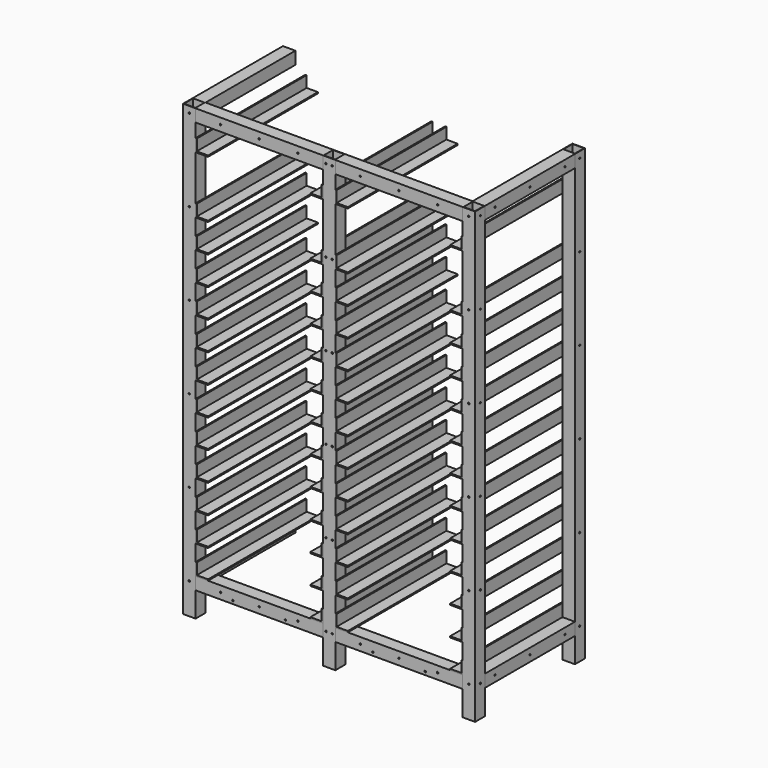
from build123d import *

# Parameters (mm, degrees)
F1_DEPTH  = 550
F0_W      = 510
F0_H      = 50
F2_DEPTH  = 50
F3_DEPTH  = 50
F4_W      = 46
F4_H      = 46
F5_DEPTH  = 1800
F6_DEPTH  = 1800
F7_DEPTH  = 1800
F8_W      = 50
F8_H      = 50
F9_DEPTH  = 450
F10_R     = 3
F11_DEPTH = 25
F12_DEPTH = 25
F13_DEPTH = 25
F14_DEPTH = 25
F15_R     = 3
F16_DEPTH = 55
F17_R     = 3
F17_R_2   = 3.195784
F18_DEPTH = 55
F19_R     = 3
F20_DEPTH = 55
F21_R     = 3
F22_DEPTH = 55
F23_R     = 3
F24_DEPTH = 25
F25_R     = 3
F26_DEPTH = 55
F27_R     = 3
F28_DEPTH = 55
F29_W     = 50
F29_H     = 1800
F30_DEPTH = 50
F31_R     = 3
F32_DEPTH = 25
F33_W     = 46
F33_H     = 46
F34_DEPTH = 1800


with BuildPart() as f1:
    # F0 (on Front) → F1 (new body)
    with BuildSketch(Plane.XZ):
        Polygon((-985.906557, 1764.440905), (-990.906557, 1764.440905), (-990.906557, 1714.440905), (-940.906557, 1714.440905), (-940.906557, 1719.440905), (-985.906557, 1719.440905), align=None)
        Polygon((-480.906557, 1714.440905), (-480.906557, 1764.440905), (-485.906557, 1764.440905), (-485.906557, 1719.440905), (-530.906557, 1719.440905), (-530.906557, 1714.440905), align=None)
        Polygon((-985.906557, 1534.440905), (-990.906557, 1534.440905), (-990.906557, 1484.440905), (-940.906557, 1484.440905), (-940.906557, 1489.440905), (-985.906557, 1489.440905), align=None)
        Polygon((-985.906557, 1419.440905), (-990.906557, 1419.440905), (-990.906557, 1369.440905), (-940.906557, 1369.440905), (-940.906557, 1374.440905), (-985.906557, 1374.440905), align=None)
        Polygon((-985.906557, 1304.440905), (-990.906557, 1304.440905), (-990.906557, 1254.440905), (-940.906557, 1254.440905), (-940.906557, 1259.440905), (-985.906557, 1259.440905), align=None)
        Polygon((-985.906557, 1189.440905), (-990.906557, 1189.440905), (-990.906557, 1139.440905), (-940.906557, 1139.440905), (-940.906557, 1144.440905), (-985.906557, 1144.440905), align=None)
        Polygon((-985.906557, 1074.440905), (-990.906557, 1074.440905), (-990.906557, 1024.440905), (-940.906557, 1024.440905), (-940.906557, 1029.440905), (-985.906557, 1029.440905), align=None)
        Polygon((-990.906557, 959.440905), (-990.906557, 909.440905), (-940.906557, 909.440905), (-940.906557, 914.440905), (-985.906557, 914.440905), (-985.906557, 959.440905), align=None)
        Polygon((-990.906557, 729.440905), (-990.906557, 679.440905), (-940.906557, 679.440905), (-940.906557, 684.440905), (-985.906557, 684.440905), (-985.906557, 729.440905), align=None)
        Polygon((-990.906557, 844.440905), (-990.906557, 794.440905), (-940.906557, 794.440905), (-940.906557, 799.440905), (-985.906557, 799.440905), (-985.906557, 844.440905), align=None)
        Polygon((-990.906557, 614.440905), (-990.906557, 564.440905), (-940.906557, 564.440905), (-940.906557, 569.440905), (-985.906557, 569.440905), (-985.906557, 614.440905), align=None)
        Polygon((-990.906557, 499.440905), (-990.906557, 449.440905), (-940.906557, 449.440905), (-940.906557, 454.440905), (-985.906557, 454.440905), (-985.906557, 499.440905), align=None)
        Polygon((-990.906557, 384.440905), (-990.906557, 334.440905), (-940.906557, 334.440905), (-940.906557, 339.440905), (-985.906557, 339.440905), (-985.906557, 384.440905), align=None)
        Polygon((-990.906557, 269.440905), (-990.906557, 219.440905), (-940.906557, 219.440905), (-940.906557, 224.440905), (-985.906557, 224.440905), (-985.906557, 269.440905), align=None)
        Polygon((-430.906557, 384.440905), (-430.906557, 334.440905), (-380.906557, 334.440905), (-380.906557, 339.440905), (-425.906557, 339.440905), (-425.906557, 384.440905), align=None)
        Polygon((-430.906557, 269.440905), (-430.906557, 219.440905), (-380.906557, 219.440905), (-380.906557, 224.440905), (-425.906557, 224.440905), (-425.906557, 269.440905), align=None)
        Polygon((-530.906557, 219.440905), (-480.906557, 219.440905), (-480.906557, 269.440905), (-485.906557, 269.440905), (-485.906557, 224.440905), (-530.906557, 224.440905), align=None)
        Polygon((-530.906557, 334.440905), (-480.906557, 334.440905), (-480.906557, 384.440905), (-485.906557, 384.440905), (-485.906557, 339.440905), (-530.906557, 339.440905), align=None)
        Polygon((-530.906557, 564.440905), (-480.906557, 564.440905), (-480.906557, 614.440905), (-485.906557, 614.440905), (-485.906557, 569.440905), (-530.906557, 569.440905), align=None)
        Polygon((-430.906557, 614.440905), (-430.906557, 564.440905), (-380.906557, 564.440905), (-380.906557, 569.440905), (-425.906557, 569.440905), (-425.906557, 614.440905), align=None)
        Polygon((-430.906557, 499.440905), (-430.906557, 449.440905), (-380.906557, 449.440905), (-380.906557, 454.440905), (-425.906557, 454.440905), (-425.906557, 499.440905), align=None)
        Polygon((-530.906557, 449.440905), (-480.906557, 449.440905), (-480.906557, 499.440905), (-485.906557, 499.440905), (-485.906557, 454.440905), (-530.906557, 454.440905), align=None)
        Polygon((-530.906557, 679.440905), (-480.906557, 679.440905), (-480.906557, 729.440905), (-485.906557, 729.440905), (-485.906557, 684.440905), (-530.906557, 684.440905), align=None)
        Polygon((-430.906557, 729.440905), (-430.906557, 679.440905), (-380.906557, 679.440905), (-380.906557, 684.440905), (-425.906557, 684.440905), (-425.906557, 729.440905), align=None)
        Polygon((-430.906557, 844.440905), (-430.906557, 794.440905), (-380.906557, 794.440905), (-380.906557, 799.440905), (-425.906557, 799.440905), (-425.906557, 844.440905), align=None)
        Polygon((-530.906557, 794.440905), (-480.906557, 794.440905), (-480.906557, 844.440905), (-485.906557, 844.440905), (-485.906557, 799.440905), (-530.906557, 799.440905), align=None)
        Polygon((-480.906557, 1024.440905), (-480.906557, 1074.440905), (-485.906557, 1074.440905), (-485.906557, 1029.440905), (-530.906557, 1029.440905), (-530.906557, 1024.440905), align=None)
        Polygon((-530.906557, 909.440905), (-480.906557, 909.440905), (-480.906557, 959.440905), (-485.906557, 959.440905), (-485.906557, 914.440905), (-530.906557, 914.440905), align=None)
        Polygon((-425.906557, 959.440905), (-430.906557, 959.440905), (-430.906557, 909.440905), (-380.906557, 909.440905), (-380.906557, 914.440905), (-425.906557, 914.440905), align=None)
        Polygon((-425.906557, 1074.440905), (-430.906557, 1074.440905), (-430.906557, 1024.440905), (-380.906557, 1024.440905), (-380.906557, 1029.440905), (-425.906557, 1029.440905), align=None)
        Polygon((-480.906557, 1254.440905), (-480.906557, 1304.440905), (-485.906557, 1304.440905), (-485.906557, 1259.440905), (-530.906557, 1259.440905), (-530.906557, 1254.440905), align=None)
        Polygon((-425.906557, 1304.440905), (-430.906557, 1304.440905), (-430.906557, 1254.440905), (-380.906557, 1254.440905), (-380.906557, 1259.440905), (-425.906557, 1259.440905), align=None)
        Polygon((-425.906557, 1189.440905), (-430.906557, 1189.440905), (-430.906557, 1139.440905), (-380.906557, 1139.440905), (-380.906557, 1144.440905), (-425.906557, 1144.440905), align=None)
        Polygon((-480.906557, 1139.440905), (-480.906557, 1189.440905), (-485.906557, 1189.440905), (-485.906557, 1144.440905), (-530.906557, 1144.440905), (-530.906557, 1139.440905), align=None)
        Polygon((-425.906557, 1419.440905), (-430.906557, 1419.440905), (-430.906557, 1369.440905), (-380.906557, 1369.440905), (-380.906557, 1374.440905), (-425.906557, 1374.440905), align=None)
        Polygon((-425.906557, 1534.440905), (-430.906557, 1534.440905), (-430.906557, 1484.440905), (-380.906557, 1484.440905), (-380.906557, 1489.440905), (-425.906557, 1489.440905), align=None)
        Polygon((-480.906557, 1484.440905), (-480.906557, 1534.440905), (-485.906557, 1534.440905), (-485.906557, 1489.440905), (-530.906557, 1489.440905), (-530.906557, 1484.440905), align=None)
        Polygon((-480.906557, 1369.440905), (-480.906557, 1419.440905), (-485.906557, 1419.440905), (-485.906557, 1374.440905), (-530.906557, 1374.440905), (-530.906557, 1369.440905), align=None)
        Polygon((-425.906557, 1764.440905), (-430.906557, 1764.440905), (-430.906557, 1714.440905), (-380.906557, 1714.440905), (-380.906557, 1719.440905), (-425.906557, 1719.440905), align=None)
        Polygon((79.093443, 1714.440905), (79.093443, 1764.440905), (74.093443, 1764.440905), (74.093443, 1719.440905), (29.093443, 1719.440905), (29.093443, 1714.440905), align=None)
        Polygon((79.093443, 1484.440905), (79.093443, 1534.440905), (74.093443, 1534.440905), (74.093443, 1489.440905), (29.093443, 1489.440905), (29.093443, 1484.440905), align=None)
        Polygon((79.093443, 1369.440905), (79.093443, 1419.440905), (74.093443, 1419.440905), (74.093443, 1374.440905), (29.093443, 1374.440905), (29.093443, 1369.440905), align=None)
        Polygon((79.093443, 1139.440905), (79.093443, 1189.440905), (74.093443, 1189.440905), (74.093443, 1144.440905), (29.093443, 1144.440905), (29.093443, 1139.440905), align=None)
        Polygon((79.093443, 1254.440905), (79.093443, 1304.440905), (74.093443, 1304.440905), (74.093443, 1259.440905), (29.093443, 1259.440905), (29.093443, 1254.440905), align=None)
        Polygon((79.093443, 909.440905), (79.093443, 959.440905), (74.093443, 959.440905), (74.093443, 914.440905), (29.093443, 914.440905), (29.093443, 909.440905), align=None)
        Polygon((79.093443, 1024.440905), (79.093443, 1074.440905), (74.093443, 1074.440905), (74.093443, 1029.440905), (29.093443, 1029.440905), (29.093443, 1024.440905), align=None)
        Polygon((29.093443, 679.440905), (79.093443, 679.440905), (79.093443, 729.440905), (74.093443, 729.440905), (74.093443, 684.440905), (29.093443, 684.440905), align=None)
        Polygon((29.093443, 794.440905), (79.093443, 794.440905), (79.093443, 844.440905), (74.093443, 844.440905), (74.093443, 799.440905), (29.093443, 799.440905), align=None)
        Polygon((29.093443, 564.440905), (79.093443, 564.440905), (79.093443, 614.440905), (74.093443, 614.440905), (74.093443, 569.440905), (29.093443, 569.440905), align=None)
        Polygon((29.093443, 449.440905), (79.093443, 449.440905), (79.093443, 499.440905), (74.093443, 499.440905), (74.093443, 454.440905), (29.093443, 454.440905), align=None)
        Polygon((29.093443, 334.440905), (79.093443, 334.440905), (79.093443, 384.440905), (74.093443, 384.440905), (74.093443, 339.440905), (29.093443, 339.440905), align=None)
        Polygon((29.093443, 219.440905), (79.093443, 219.440905), (79.093443, 269.440905), (74.093443, 269.440905), (74.093443, 224.440905), (29.093443, 224.440905), align=None)
    extrude(amount=-F1_DEPTH)


with BuildPart() as f2:
    # F0 (on Front) → F2 (new body)
    with BuildSketch(Plane.XZ):
        with Locations((-735.906557, 1844.440905)):
            Rectangle(F0_W, F0_H)
        with Locations((-175.906557, 1844.440905)):
            Rectangle(F0_W, F0_H)
        Polygon((-430.906557, 219.440905), (-430.906557, 169.440905), (79.093443, 169.440905), (79.093443, 219.440905), (29.093443, 219.440905), (-380.906557, 219.440905), align=None)
        Polygon((-990.906557, 219.440905), (-990.906557, 169.440905), (-480.906557, 169.440905), (-480.906557, 219.440905), (-530.906557, 219.440905), (-940.906557, 219.440905), align=None)
    extrude(amount=-F2_DEPTH)

    # F15 (on face) → F16 (cut)
    with BuildSketch(Plane.XZ):
        with Locations((-890.906557, 194.440905)):
            Circle(F15_R)
        with Locations((-580.906557, 194.440905)):
            Circle(F15_R)
        with Locations((-735.906557, 194.440905)):
            Circle(F15_R)
        with Locations((-630.906557, 181.940905)):
            Circle(F15_R)
        with Locations((-840.906557, 181.940905)):
            Circle(F15_R)
    extrude(amount=-F16_DEPTH, mode=Mode.SUBTRACT)

    # F17 (on face) → F18 (cut)
    with BuildSketch(Plane.XZ):
        with Locations((-330.906557, 194.440905)):
            Circle(F17_R)
        with Locations((-175.906557, 194.440905)):
            Circle(F17_R)
        with Locations((-20.906557, 194.440905)):
            Circle(F17_R_2)
        with Locations((-280.906557, 181.940905)):
            Circle(F17_R)
        with Locations((-70.906557, 181.940905)):
            Circle(F17_R)
    extrude(amount=-F18_DEPTH, mode=Mode.SUBTRACT)

    # F19 (on face) → F20 (cut)
    with BuildSketch(Plane.XZ):
        with Locations((-330.906557, 1844.440905)):
            Circle(F19_R)
        with Locations((-175.906557, 1844.440905)):
            Circle(F19_R)
        with Locations((-20.906557, 1844.440905)):
            Circle(F19_R)
    extrude(amount=-F20_DEPTH, mode=Mode.SUBTRACT)

    # F21 (on face) → F22 (cut)
    with BuildSketch(Plane.XZ):
        with Locations((-890.906557, 1844.440905)):
            Circle(F21_R)
        with Locations((-735.906557, 1844.440905)):
            Circle(F21_R)
        with Locations((-580.906557, 1844.440905)):
            Circle(F21_R)
    extrude(amount=-F22_DEPTH, mode=Mode.SUBTRACT)


with BuildPart() as f3:
    # F0 (on Front) → F3 (new body)
    with BuildSketch(Plane.XZ):
        Polygon((129.093443, 1869.440905), (79.093443, 1869.440905), (79.093443, 1819.440905), (79.093443, 1764.440905), (79.093443, 1714.440905), (79.093443, 1534.440905), (79.093443, 1484.440905), (79.093443, 1419.440905), (79.093443, 1369.440905), (79.093443, 1304.440905), (79.093443, 1254.440905), (79.093443, 1189.440905), (79.093443, 1139.440905), (79.093443, 1074.440905), (79.093443, 1024.440905), (79.093443, 959.440905), (79.093443, 909.440905), (79.093443, 844.440905), (79.093443, 794.440905), (79.093443, 729.440905), (79.093443, 679.440905), (79.093443, 614.440905), (79.093443, 564.440905), (79.093443, 499.440905), (79.093443, 449.440905), (79.093443, 384.440905), (79.093443, 334.440905), (79.093443, 269.440905), (79.093443, 219.440905), (79.093443, 169.440905), (79.093443, 69.440905), (129.093443, 69.440905), align=None)
        Polygon((-480.906557, 219.440905), (-480.906557, 169.440905), (-480.906557, 69.440905), (-430.906557, 69.440905), (-430.906557, 169.440905), (-430.906557, 219.440905), (-430.906557, 269.440905), (-430.906557, 334.440905), (-430.906557, 384.440905), (-430.906557, 449.440905), (-430.906557, 499.440905), (-430.906557, 564.440905), (-430.906557, 614.440905), (-430.906557, 679.440905), (-430.906557, 729.440905), (-430.906557, 794.440905), (-430.906557, 844.440905), (-430.906557, 909.440905), (-430.906557, 959.440905), (-430.906557, 1024.440905), (-430.906557, 1074.440905), (-430.906557, 1139.440905), (-430.906557, 1189.440905), (-430.906557, 1254.440905), (-430.906557, 1304.440905), (-430.906557, 1369.440905), (-430.906557, 1419.440905), (-430.906557, 1484.440905), (-430.906557, 1534.440905), (-430.906557, 1714.440905), (-430.906557, 1764.440905), (-430.906557, 1819.440905), (-430.906557, 1869.440905), (-480.906557, 1869.440905), (-480.906557, 1819.440905), (-480.906557, 1764.440905), (-480.906557, 1714.440905), (-480.906557, 1534.440905), (-480.906557, 1484.440905), (-480.906557, 1419.440905), (-480.906557, 1369.440905), (-480.906557, 1304.440905), (-480.906557, 1254.440905), (-480.906557, 1189.440905), (-480.906557, 1139.440905), (-480.906557, 1074.440905), (-480.906557, 1024.440905), (-480.906557, 959.440905), (-480.906557, 909.440905), (-480.906557, 844.440905), (-480.906557, 794.440905), (-480.906557, 729.440905), (-480.906557, 679.440905), (-480.906557, 614.440905), (-480.906557, 564.440905), (-480.906557, 499.440905), (-480.906557, 449.440905), (-480.906557, 384.440905), (-480.906557, 334.440905), (-480.906557, 269.440905), align=None)
        Polygon((-1040.906557, 1869.440905), (-1040.906557, 69.440905), (-990.906557, 69.440905), (-990.906557, 169.440905), (-990.906557, 219.440905), (-990.906557, 269.440905), (-990.906557, 334.440905), (-990.906557, 384.440905), (-990.906557, 449.440905), (-990.906557, 499.440905), (-990.906557, 564.440905), (-990.906557, 614.440905), (-990.906557, 679.440905), (-990.906557, 729.440905), (-990.906557, 794.440905), (-990.906557, 844.440905), (-990.906557, 909.440905), (-990.906557, 959.440905), (-990.906557, 1024.440905), (-990.906557, 1074.440905), (-990.906557, 1139.440905), (-990.906557, 1189.440905), (-990.906557, 1254.440905), (-990.906557, 1304.440905), (-990.906557, 1369.440905), (-990.906557, 1419.440905), (-990.906557, 1484.440905), (-990.906557, 1534.440905), (-990.906557, 1714.440905), (-990.906557, 1764.440905), (-990.906557, 1819.440905), (-990.906557, 1869.440905), align=None)
    extrude(amount=-F3_DEPTH)

    # F4 (on face) → F5 (cut)
    with BuildSketch(Plane.XY.offset(1869.440905)):
        with Locations((-1015.906557, 25)):
            Rectangle(F4_W, F4_H)
    extrude(amount=-F5_DEPTH, mode=Mode.SUBTRACT)

    # F4 (on face) → F6 (cut)
    with BuildSketch(Plane.XY.offset(1869.440905)):
        with Locations((-455.906557, 25)):
            Rectangle(F4_W, F4_H)
    extrude(amount=-F6_DEPTH, mode=Mode.SUBTRACT)

    # F4 (on face) → F7 (cut)
    with BuildSketch(Plane.XY.offset(1869.440905)):
        with Locations((104.093443, 25)):
            Rectangle(F4_W, F4_H)
    extrude(amount=-F7_DEPTH, mode=Mode.SUBTRACT)

    # F10 (on face) → F11 (cut)
    with BuildSketch(Plane.XZ):
        with Locations((-1015.906557, 194.440905)):
            Circle(F10_R)
        with Locations((-1015.906557, 524.440905)):
            Circle(F10_R)
        with Locations((-1015.906557, 854.440905)):
            Circle(F10_R)
        with Locations((-1015.906557, 1184.440905)):
            Circle(F10_R)
        with Locations((-1015.906557, 1514.440905)):
            Circle(F10_R)
        with Locations((-1015.906557, 1844.440905)):
            Circle(F10_R)
    extrude(amount=-F11_DEPTH, mode=Mode.SUBTRACT)

    # F10 (on face) → F12 (cut)
    with BuildSketch(Plane.XZ):
        with Locations((103.630789, 1514.440905)):
            Circle(F10_R)
        with Locations((103.630789, 854.440905)):
            Circle(F10_R)
        with Locations((103.630789, 524.440905)):
            Circle(F10_R)
        with Locations((103.630789, 194.440905)):
            Circle(F10_R)
        with Locations((103.630789, 1184.440905)):
            Circle(F10_R)
        with Locations((103.630789, 1844.440905)):
            Circle(F10_R)
    extrude(amount=-F12_DEPTH, mode=Mode.SUBTRACT)

    # F10 (on face) → F13 (cut)
    with BuildSketch(Plane.XZ):
        with Locations((-468.406557, 194.440905)):
            Circle(F10_R)
        with Locations((-468.406557, 524.440905)):
            Circle(F10_R)
        with Locations((-468.406557, 854.440905)):
            Circle(F10_R)
        with Locations((-468.406557, 1844.440905)):
            Circle(F10_R)
        with Locations((-468.406557, 1184.440905)):
            Circle(F10_R)
        with Locations((-468.406557, 1514.440905)):
            Circle(F10_R)
    extrude(amount=-F13_DEPTH, mode=Mode.SUBTRACT)

    # F10 (on face) → F14 (cut)
    with BuildSketch(Plane.XZ):
        with Locations((-443.406557, 194.440905)):
            Circle(F10_R)
        with Locations((-443.406557, 524.440905)):
            Circle(F10_R)
        with Locations((-443.406557, 854.440905)):
            Circle(F10_R)
        with Locations((-443.406557, 1184.440905)):
            Circle(F10_R)
        with Locations((-443.406557, 1514.440905)):
            Circle(F10_R)
        with Locations((-443.406557, 1844.440905)):
            Circle(F10_R)
    extrude(amount=-F14_DEPTH, mode=Mode.SUBTRACT)

    # F23 (on face) → F24 (cut)
    with BuildSketch(Plane.YZ.offset(129.093443)):
        with Locations((26.194971, 194.440905)):
            Circle(F23_R)
        with Locations((26.194971, 524.440905)):
            Circle(F23_R)
        with Locations((26.194971, 854.440905)):
            Circle(F23_R)
        with Locations((26.194971, 1184.440905)):
            Circle(F23_R)
        with Locations((26.194971, 1514.440905)):
            Circle(F23_R)
        with Locations((26.194971, 1844.440905)):
            Circle(F23_R)
    extrude(amount=-F24_DEPTH, mode=Mode.SUBTRACT)


with BuildPart() as f9:
    # F8 (on face) → F9 (new body)
    with BuildSketch(Plane(origin=(0, 50, 0), x_dir=(-1, 0, 0), z_dir=(0, 1, 0))):
        with Locations((1015.906557, 194.440905)):
            Rectangle(F8_W, F8_H)
        with Locations((-104.093443, 194.440905)):
            Rectangle(F8_W, F8_H)
        with Locations((-104.093443, 1844.440905)):
            Rectangle(F8_W, F8_H)
        with Locations((1015.906557, 1844.440905)):
            Rectangle(F8_W, F8_H)
    extrude(amount=F9_DEPTH)

    # F25 (on face) → F26 (cut)
    with BuildSketch(Plane.YZ.offset(129.093443)):
        with Locations((100, 194.440905)):
            Circle(F25_R)
        with Locations((275, 194.440905)):
            Circle(F25_R)
        with Locations((450, 194.440905)):
            Circle(F25_R)
    extrude(amount=-F26_DEPTH, mode=Mode.SUBTRACT)

    # F27 (on face) → F28 (cut)
    with BuildSketch(Plane.YZ.offset(129.093443)):
        with Locations((100, 1844.440905)):
            Circle(F27_R)
        with Locations((275, 1844.440905)):
            Circle(F27_R)
        with Locations((450, 1844.440905)):
            Circle(F27_R)
    extrude(amount=-F28_DEPTH, mode=Mode.SUBTRACT)


with BuildPart() as f30:
    # F29 (on face) → F30 (new body)
    with BuildSketch(Plane(origin=(0, 500, 0), x_dir=(-1, 0, 0), z_dir=(0, 1, 0))):
        with Locations((-104.093443, 969.440905)):
            Rectangle(F29_W, F29_H)
    extrude(amount=F30_DEPTH)

    # F31 (on face) → F32 (cut)
    with BuildSketch(Plane.YZ.offset(129.093443)):
        with Locations((524.021239, 194.440905)):
            Circle(F31_R)
        with Locations((524.021239, 524.440905)):
            Circle(F31_R)
        with Locations((524.021239, 854.440905)):
            Circle(F31_R)
        with Locations((524.021239, 1184.440905)):
            Circle(F31_R)
        with Locations((524.021239, 1514.440905)):
            Circle(F31_R)
        with Locations((524.021239, 1844.440905)):
            Circle(F31_R)
    extrude(amount=-F32_DEPTH, mode=Mode.SUBTRACT)

    # F33 (on face) → F34 (cut)
    with BuildSketch(Plane.XY.offset(1869.440905)):
        with Locations((104.093443, 525)):
            Rectangle(F33_W, F33_H)
    extrude(amount=-F34_DEPTH, mode=Mode.SUBTRACT)


solid = Compound([f1.part, f2.part, f3.part, f9.part, f30.part])
